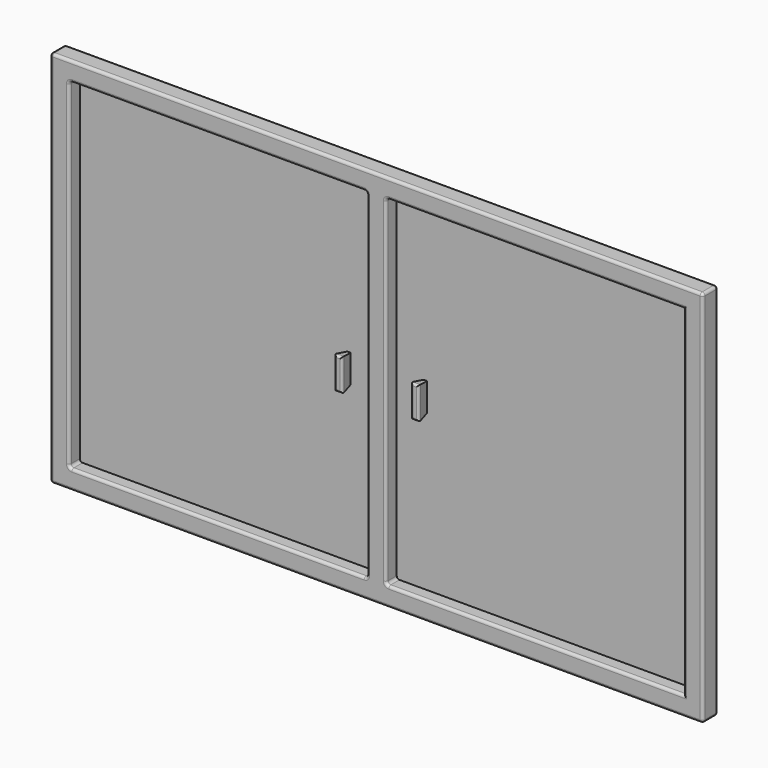
from build123d import *

# Parameters (mm, degrees)
F0_W     = 2390
F0_H     = 1385
F0_W_2   = 1090
F0_H_2   = 1245
F1_DEPTH = 69
F2_R     = 10
F5_DEPTH = 20
F7_DEPTH = 49
F7_TAPER = 10
F8_R     = 7.5
F8_2_R   = 7.5


with BuildPart() as f1:
    # F0 (on Front) → F1 (new body)
    with BuildSketch(Plane.XZ):
        with Locations((1195, 692.5)):
            Rectangle(F0_W, F0_H)
        with Locations((615, 692.5)):
            Rectangle(F0_W_2, F0_H_2, mode=Mode.SUBTRACT)
        with Locations((1775, 692.5)):
            Rectangle(F0_W_2, F0_H_2, mode=Mode.SUBTRACT)
    extrude(amount=F1_DEPTH)

    # F2
    f2_edges = [f1.edges().sort_by_distance(p)[0] for p in [
        (0, -69, 692.5),
        (1195, -69, 0),
        (2390, -69, 692.5),
        (1195, -69, 1385),
        (70, -69, 692.5),
        (615, -69, 1315),
        (1160, -69, 692.5),
        (615, -69, 70),
        (2320, -69, 692.5),
        (1775, -69, 70),
        (1230, -69, 692.5),
        (1775, -69, 1315),
        (0, 0, 692.5),
        (1195, 0, 0),
        (2390, 0, 692.5),
        (1195, 0, 1385),
        (70, 0, 692.5),
        (615, 0, 1315),
        (1160, 0, 692.5),
        (615, 0, 70),
        (2320, 0, 692.5),
        (1775, 0, 70),
        (1230, 0, 692.5),
        (1775, 0, 1315),
        (2390, -34.5, 1385),
        (0, -34.5, 1385),
        (2390, -34.5, 0),
        (1160, -34.5, 70),
        (70, -34.5, 70),
        (1230, -34.5, 70),
        (1230, -34.5, 1315),
        (0, -34.5, 0),
        (1160, -34.5, 1315),
        (70, -34.5, 1315),
    ]]
    fillet(f2_edges, radius=F2_R)


with BuildPart() as f5:
    # F4 (on face) → F5 (new body)
    with BuildSketch(Plane(origin=(0, 0, 0), x_dir=(-1, 0, 0), z_dir=(0, 1, 0))):
        with BuildLine():
            Line((-2330, 1325), (-2330, 60))
            Line((-2330, 60), (-1240, 60))
            ThreePointArc((-1240, 60), (-1225.8578643763, 65.8578643763), (-1220, 80))
            Line((-1220, 80), (-1220, 1305))
            ThreePointArc((-1220, 1305), (-1225.8578643763, 1319.1421356237), (-1240, 1325))
            Line((-1240, 1325), (-2330, 1325))
        make_face()
    extrude(amount=-F5_DEPTH)


with BuildPart() as f5b:
    # F4 (on face) → F5, piece 2 (new body)
    with BuildSketch(Plane(origin=(0, 0, 0), x_dir=(-1, 0, 0), z_dir=(0, 1, 0))):
        with BuildLine():
            Line((-80, 1325), (-1150, 1325))
            ThreePointArc((-1150, 1325), (-1164.1421356237, 1319.1421356237), (-1170, 1305))
            Line((-1170, 1305), (-1170, 80))
            ThreePointArc((-1170, 80), (-1164.1421356237, 65.8578643763), (-1150, 60))
            Line((-1150, 60), (-80, 60))
            ThreePointArc((-80, 60), (-65.8578643763, 65.8578643763), (-60, 80))
            Line((-60, 80), (-60, 1305))
            ThreePointArc((-60, 1305), (-65.8578643763, 1319.1421356237), (-80, 1325))
        make_face()
    extrude(amount=-F5_DEPTH)


with BuildPart() as f7:
    # F6 (on face) → F7 (new body, through all)
    with BuildSketch(Plane.XZ.offset(69)):
        Polygon((1070, 692.5), (1070, 752.5), (1040, 752.5), (1040, 632.5), (1070, 632.5), align=None)
    extrude(amount=-F7_DEPTH, taper=F7_TAPER)

    # F8#2
    f8_2_edges = [f7.edges().sort_by_distance(p)[0] for p in [
        (1070, -69, 692.5),
        (1055, -69, 752.5),
        (1040, -69, 692.5),
        (1055, -69, 632.5),
    ]]
    fillet(f8_2_edges, radius=F8_2_R)


with BuildPart() as f7b:
    # F6 (on face) → F7, piece 2 (new body, through all)
    with BuildSketch(Plane.XZ.offset(69)):
        Polygon((1320, 632.5), (1350, 632.5), (1350, 752.5), (1320, 752.5), (1320, 692.5), align=None)
    extrude(amount=-F7_DEPTH, taper=F7_TAPER)

    # F8
    f8_edges = [f7b.edges().sort_by_distance(p)[0] for p in [
        (1335, -69, 632.5),
        (1350, -69, 692.5),
        (1335, -69, 752.5),
        (1320, -69, 692.5),
    ]]
    fillet(f8_edges, radius=F8_R)


solid = Compound([f1.part, f5.part, f5b.part, f7.part, f7b.part])
